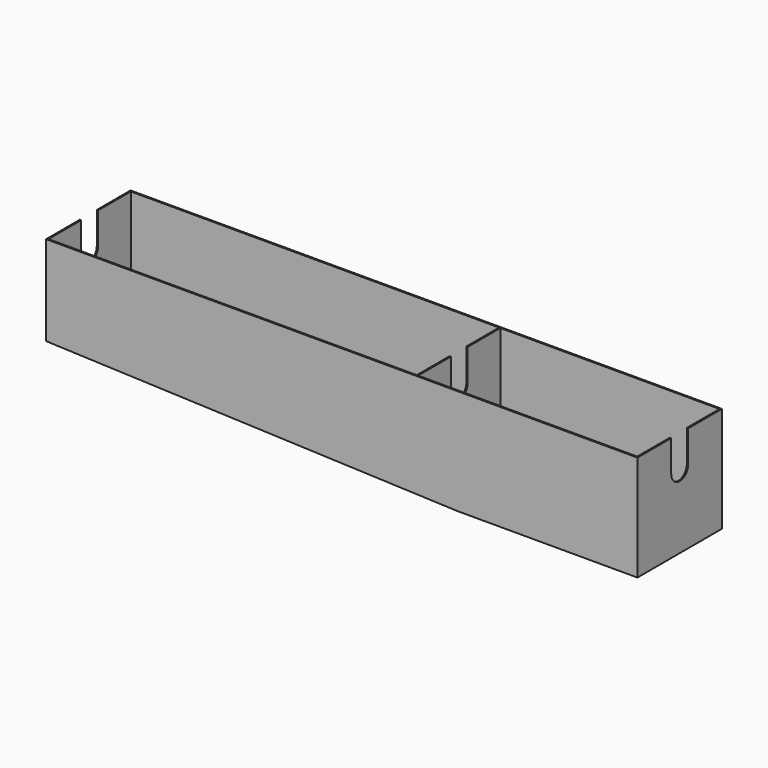
from build123d import *

# Parameters (mm, degrees)
F1_DEPTH  = 1.5875
F2_W      = 125.4125
F2_H      = 107.95
F3_DEPTH  = 1.5875
F4_W      = 127
F4_H      = 127
F4_W_2    = 125.4125
F5_DEPTH  = 1.5875
F7_DEPTH  = 1.5875
F9_DEPTH  = 127
F11_DEPTH = 127
F13_DEPTH = 711.201
F14_R     = 12.7
F15_DEPTH = 25.4
F16_R     = 14.2875
F16_R_2   = 12.7
F17_DEPTH = 25.4
F18_W     = 123.825
F18_H     = 25.4
F19_DEPTH = 1.5875


with BuildPart() as f1:
    # F0 (on Front) → F1 (new body)
    with BuildSketch(Plane.XZ):
        Polygon((355.6, 120.65), (-355.6, 120.65), (-355.6, 12.7), (139.7, -6.35), (355.6, -6.35), align=None)
    extrude(amount=-F1_DEPTH)

    # F2 (on face) → F3 (join)
    with BuildSketch(Plane(origin=(-355.6, 0, 0), x_dir=(0, -1, 0), z_dir=(-1, 0, 0))):
        with Locations((-64.29375, 66.675)):
            Rectangle(F2_W, F2_H)
    extrude(amount=-F3_DEPTH)

    # F4 (on face) → F5 (join)
    with BuildSketch(Plane.YZ.offset(355.6)):
        with Locations((63.5, 57.15)):
            Rectangle(F4_W, F4_H)
        with Locations((64.29375, 57.15)):
            Rectangle(F4_W_2, F4_H)
    extrude(amount=-F5_DEPTH)

    # F6 (on face) → F7 (join)
    with BuildSketch(Plane(origin=(0, 127, 0), x_dir=(-1, 0, 0), z_dir=(0, 1, 0))):
        Polygon((355.6, 12.7), (355.6, 120.65), (-355.6, 120.65), (-355.6, -6.35), (-139.7, -6.35), align=None)
    extrude(amount=-F7_DEPTH)

    # F8 (on face) → F9 (join)
    with BuildSketch(Plane.XZ):
        Polygon((-355.6, 14.2875), (-355.6, 12.7), (139.7, -6.35), (355.6, -6.35), (355.6, -4.7625), (139.7, -4.7625), align=None)
    extrude(amount=-F9_DEPTH)

    # F10 (on face) → F11 (join)
    with BuildSketch(Plane.XZ):
        Polygon((90.4875, 120.65), (88.9, 120.65), (88.9, -4.396154), (90.4875, -4.457212), align=None)
    extrude(amount=-F11_DEPTH)

    # F12 (on face) → F13 (cut, through all)
    with BuildSketch(Plane.YZ.offset(355.6)):
        with BuildLine():
            Line((50.8, 120.65), (50.8, 82.55))
            ThreePointArc((50.8, 82.55), (63.5, 69.85), (76.2, 82.55))
            Line((76.2, 82.55), (76.2, 120.65))
            Line((76.2, 120.65), (63.5, 120.65))
            Line((63.5, 120.65), (50.8, 120.65))
        make_face()
    extrude(amount=-F13_DEPTH, mode=Mode.SUBTRACT)

    # F14 (on face) → F15 (cut)
    with BuildSketch(Plane.XY.offset(-4.7625)):
        with Locations((163.5125, 63.5)):
            Circle(F14_R)
    extrude(amount=-F15_DEPTH, mode=Mode.SUBTRACT)

    # F16 (on face) → F17 (join)
    with BuildSketch(Plane(origin=(0, 0, -6.35), x_dir=(1, 0, 0), z_dir=(0, 0, -1))):
        with Locations((163.5125, -63.5)):
            Circle(F16_R)
        with Locations((163.5125, -63.5)):
            Circle(F16_R_2, mode=Mode.SUBTRACT)
    extrude(amount=F17_DEPTH)

    # F18 (on face) → F19 (cut)
    with BuildSketch(Plane.YZ.offset(90.4875)):
        with Locations((63.5, 9.830288)):
            Rectangle(F18_W, F18_H)
    extrude(amount=-F19_DEPTH, mode=Mode.SUBTRACT)


solid = f1.part
